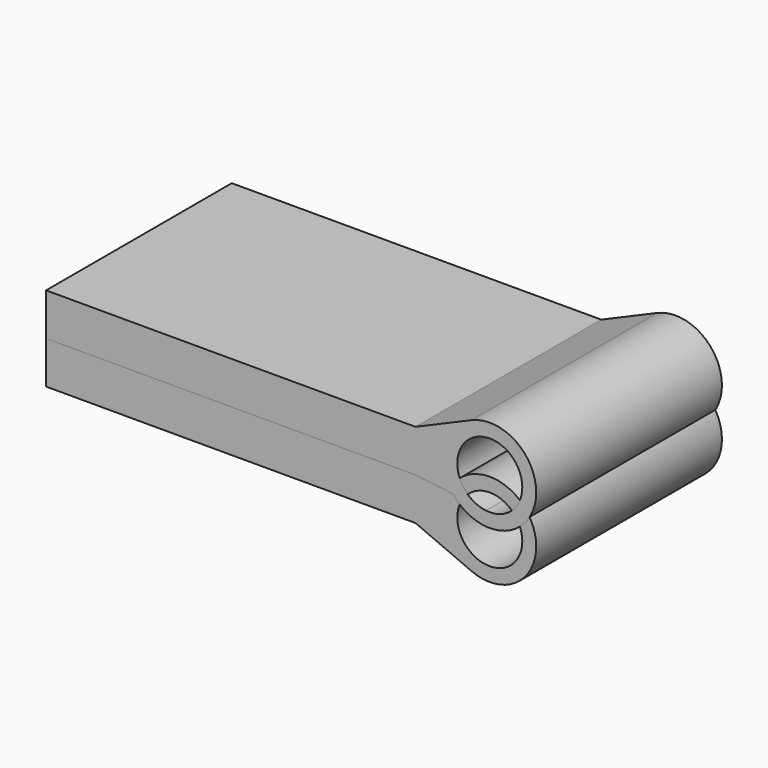
from build123d import *

# Parameters (mm, degrees)
F0_W     = 39.787954
F0_H     = 4.562471
F1_DEPTH = 25


with BuildPart() as f1:
    # F0 (on Front) → F1 (new body)
    with BuildSketch(Plane.XZ):
        with Locations((-1.044159, -2.281235)):
            Rectangle(F0_W, F0_H)
        with BuildLine():
            Line((22.886485, 0.485805), (18.849818, 0))
            Line((18.849818, 0), (18.849818, -4.562471))
            Line((18.849818, -4.562471), (24.872971, -7.155082))
            ThreePointArc((24.872971, -7.155082), (31.688953, -1.304387), (22.886485, 0.485805))
        make_face()
        with BuildLine():
            ThreePointArc((30.349818, -2.562471), (24.527503, -5.18103), (26.431618, 0.912455))
            ThreePointArc((26.431618, 0.912455), (29.172134, 0.056088), (30.349818, -2.562471))
        make_face(mode=Mode.SUBTRACT)
    extrude(amount=F1_DEPTH)


with BuildPart() as f3_1:
    # F3: instance of F1
    add(f1.part.mirror(Plane.XY))


solid = Compound([f1.part, f3_1.part])
